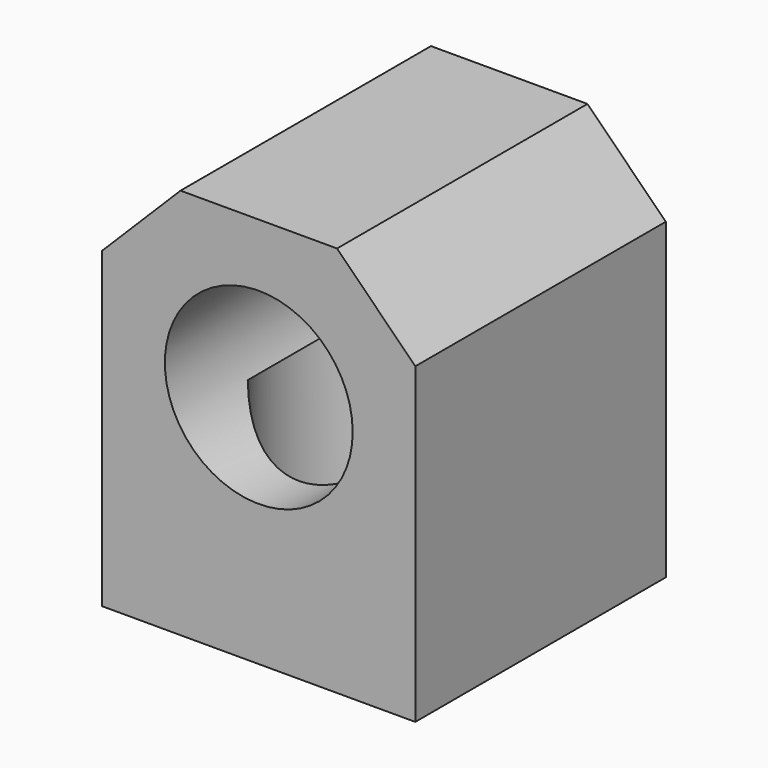
from build123d import *

# Parameters (mm, degrees)
F0_R     = 3
F1_DEPTH = 5
F2_R     = 3.4
F3_DEPTH = 6
F4_SIZE  = 2.5


with BuildPart() as f1:
    # F0 (on Front) → F1 (new body, symmetric)
    with BuildSketch(Plane.XZ):
        Polygon((5, 5), (-5, 5), (-5, -5), (-5, -7.5), (5, -7.5), (5, -5), align=None)
        Circle(F0_R, mode=Mode.SUBTRACT)
    extrude(amount=F1_DEPTH, both=True)

    # F2 (on face) → F3 (cut)
    with BuildSketch(Plane(origin=(0, 0, -7.5), x_dir=(1, 0, 0), z_dir=(0, 0, -1))):
        Circle(F2_R)
    extrude(amount=-F3_DEPTH, mode=Mode.SUBTRACT)

    # F4
    f4_edges = [f1.edges().sort_by_distance(p)[0] for p in [
        (-5, 0, 5),
        (5, 0, 5),
    ]]
    chamfer(f4_edges, length=F4_SIZE)


solid = f1.part
